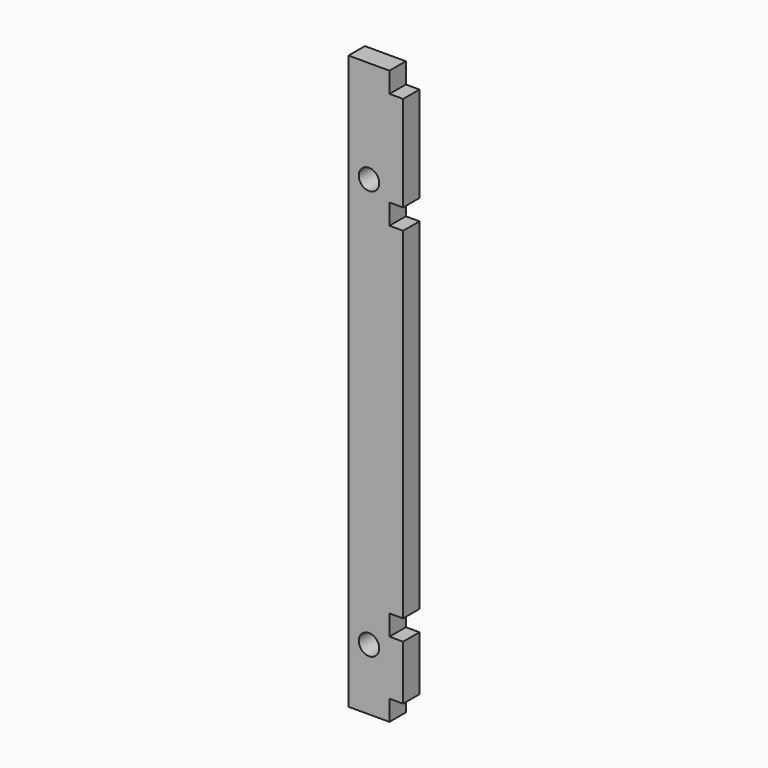
from build123d import *

# Parameters (mm, degrees)
F0_R     = 1.5
F1_DEPTH = 3


with BuildPart() as f1:
    # F0 (on Front) → F1 (new body)
    with BuildSketch(Plane.XZ):
        Polygon((2, 39), (2, 42), (-4, 42), (-4, -42), (2, -42), (2, -39), (4, -39), (4, -31), (2, -31), (2, -28), (4, -28), (4, 22), (2, 22), (2, 25), (4, 25), (4, 39), align=None)
        with Locations((-1, -33)):
            Circle(F0_R, mode=Mode.SUBTRACT)
        with Locations((-1, 27)):
            Circle(F0_R, mode=Mode.SUBTRACT)
    extrude(amount=F1_DEPTH)


solid = f1.part
